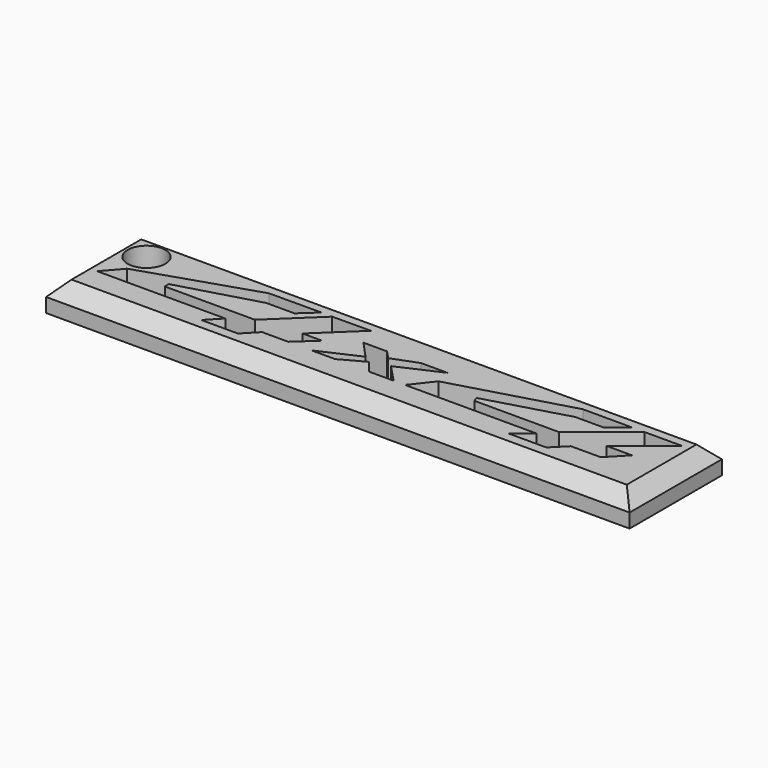
from build123d import *

# Parameters (mm, degrees)
F0_W     = 61.832226
F0_H     = 12.226711
F1_DEPTH = 3
F2_SIZE  = 1.5
F3_R     = 2
F4_DEPTH = 25


with BuildPart() as f1:
    # F0 (on Top) → F1 (new body)
    with BuildSketch(Plane.XY):
        with Locations((0.166392, 0.753395)):
            Rectangle(F0_W, F0_H)
        Polygon((0, 1.507616), (2.671845, 2.527045), (5.47565, 2.527045), (1.073979, 0.537249), (2.882884, -1.362103), (0.259971, -1.362103), (-0.825374, 0), (-3.327693, -1.362103), (-5.824599, -1.362103), (-1.623004, 0.537249), (-3.327693, 2.405905), (-0.825374, 2.405905), align=None, mode=Mode.SUBTRACT)
        Polygon((-8.263383, 4.426397), (-4.177737, 4.452007), (-8.288235, 0.537249), (-6.223839, 0.537249), (-8.288235, -1.362103), (-11.064619, -1.362103), (-12.461958, -2.809228), (-16.354544, -2.809228), (-14.957204, -1.362103), (-28.531348, -1.362103), (-26.884485, 0.537249), (-14.957204, 4.426397), (-9.417756, 4.452007), (-11.064619, 2.936808), (-14.058915, 2.936808), (-22.457372, 0.537249), (-22.457372, 0), (-12.911102, 0), align=None, mode=Mode.SUBTRACT)
        Polygon((4.088822, -1.362103), (5.837431, 0.868881), (18.288735, 4.426397), (23.504414, 4.426397), (21.665359, 2.949124), (18.680664, 2.949124), (10.187338, 0.522459), (10.336612, 0), (19.313782, 0), (24.824195, 4.426397), (28.81054, 4.426397), (23.950536, 0.522459), (26.639851, 0.522459), (24.824195, -1.362103), (21.665359, -1.362103), (20.218235, -2.809228), (16.208492, -2.809228), (18.010015, -1.362103), align=None, mode=Mode.SUBTRACT)
    extrude(amount=-F1_DEPTH)

    # F2
    f2_edges = [f1.edges().sort_by_distance(p)[0] for p in [
        (0.166392, 6.866751, 0),
        (-30.749721, 0.753396, 0),
        (0.166392, -5.35996, 0),
        (31.082505, 0.753396, 0),
    ]]
    chamfer(f2_edges, length=F2_SIZE)

    # F3 (on face) → F4 (cut)
    with BuildSketch(Plane.XY):
        with Locations((-26.956197, 3.192364)):
            Circle(F3_R)
    extrude(amount=-F4_DEPTH, mode=Mode.SUBTRACT)


solid = f1.part
